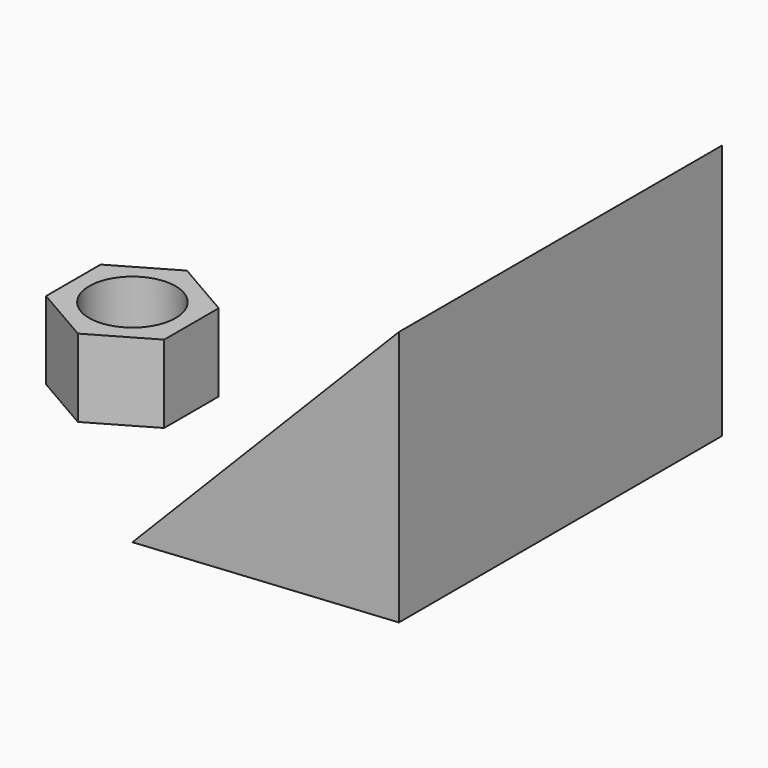
from build123d import *

# Parameters (mm, degrees)
F0_R     = 10
F1_DEPTH = 18
F2_R     = 10
F3_DEPTH = 16
F4_R     = 1.409509
F5_DEPTH = 25
F7_DEPTH = 93.437744


with BuildPart() as f1:
    # F0 (on Top) → F1 (new body)
    with BuildSketch(Plane.XY):
        Polygon((13.665644, -7.889864), (13.665644, 7.889864), (0, 15.779727), (-13.665644, 7.889864), (-13.665644, -7.889864), (0, -15.779727), align=None)
        Circle(F0_R, mode=Mode.SUBTRACT)
        Circle(F0_R)
    extrude(amount=F1_DEPTH)

    # F2 (on face) → F3 (cut)
    with BuildSketch(Plane.XY.offset(18)):
        Circle(F2_R)
    extrude(amount=-F3_DEPTH, mode=Mode.SUBTRACT)

    # F4 (on face) → F5 (cut)
    with BuildSketch(Plane(origin=(0, 0, 0), x_dir=(1, 0, 0), z_dir=(0, 0, -1))):
        Circle(F4_R)
    extrude(amount=-F5_DEPTH, mode=Mode.SUBTRACT)


with BuildPart() as f7:
    # F6 (on Front) → F7 (new body)
    with BuildSketch(Plane.XZ):
        Polygon((61.66669, 31.96831), (0, -30.919068), (61.66669, -27.21563), align=None)
    extrude(amount=-F7_DEPTH)


solid = Compound([f1.part, f7.part])
